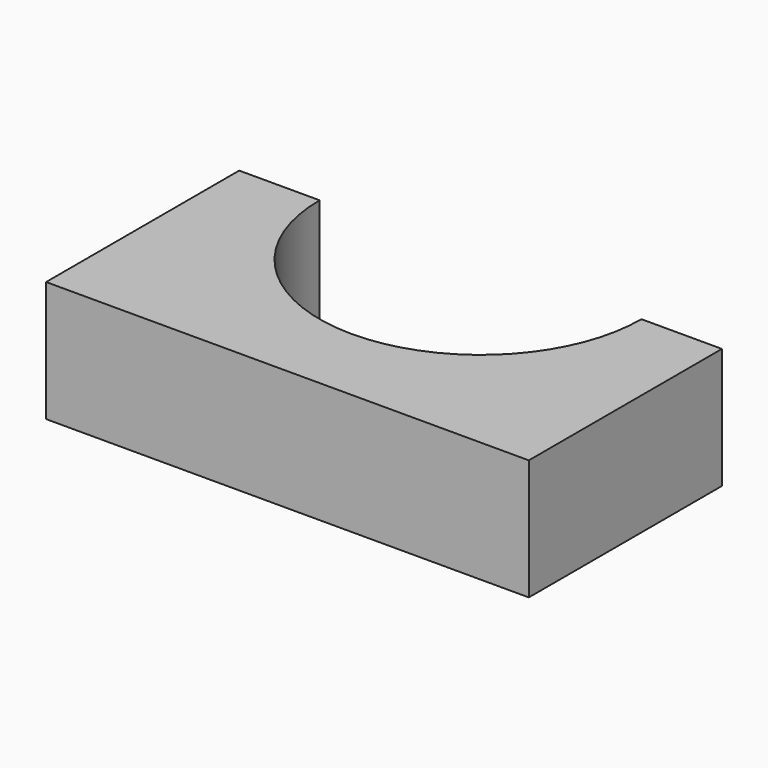
from build123d import *

# Parameters (mm, degrees)
F1_DEPTH = 15


with BuildPart() as f1:
    # F0 (on Top) → F1 (new body)
    with BuildSketch(Plane.XY):
        with BuildLine():
            Line((-30, 0), (0, 0))
            Line((0, 0), (30, 0))
            Line((30, 0), (30, 30))
            Line((30, 30), (20, 30))
            ThreePointArc((20, 30), (14.142136, 15.857864), (0, 10))
            ThreePointArc((0, 10), (-14.142136, 15.857864), (-20, 30))
            Line((-20, 30), (-30, 30))
            Line((-30, 30), (-30, 0))
        make_face()
    extrude(amount=F1_DEPTH)


solid = f1.part
